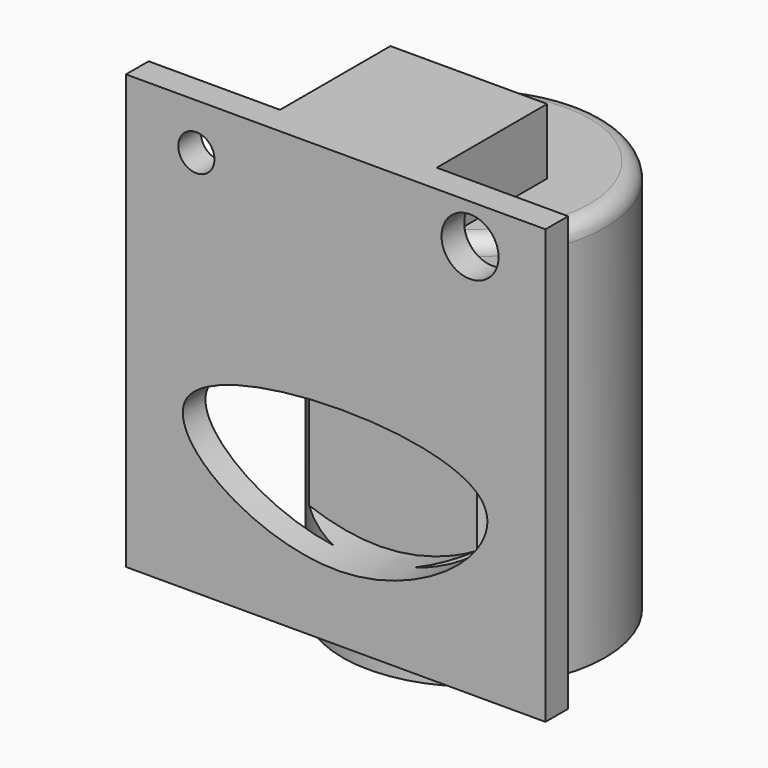
from build123d import *

# Parameters (mm, degrees)
F0_R      = 127
F1_DEPTH  = 381
F2_R      = 15.24
F3_W      = 126.0042116046
F3_H      = 33.7627371773
F4_DEPTH  = 63.5
F5_W      = 126.0042116046
F5_H      = 63.5
F6_DEPTH  = 127
F7_W      = 126.0042116046
F7_H      = 27.3971298127
F8_DEPTH  = 355.6
F9_DEPTH  = 25.4
F11_DEPTH = 127
F12_W     = 27.3971298127
F12_H     = 419.1
F13_DEPTH = 127
F14_R     = 17.4895868551
F14_R_2   = 27.5583251685
F15_DEPTH = 50.8


with BuildPart() as f1:
    # F0 (on Top) → F1 (new body)
    with BuildSketch(Plane.XY):
        with Locations((-18.0272441357, 8.4358751774)):
            Circle(F0_R)
    extrude(amount=F1_DEPTH)

    # F2
    f2_edges = [f1.edges().sort_by_distance(p)[0] for p in [
        (-145.027244, 8.435875, 381),
    ]]
    fillet(f2_edges, radius=F2_R)

    # F3 (on face) → F4 (join)
    with BuildSketch(Plane.XY.offset(381)):
        with Locations((-20.0667567551, 3.8541001268)):
            Rectangle(F3_W, F3_H)
    extrude(amount=F4_DEPTH)

    # F5 (on face) → F6 (join)
    with BuildSketch(Plane.XZ.offset(13.0272684619)):
        with Locations((-20.0667567551, 412.75)):
            Rectangle(F5_W, F5_H)
    extrude(amount=F6_DEPTH)

    # F7 (on face) → F8 (join)
    with BuildSketch(Plane(origin=(0, 0, 381), x_dir=(1, 0, 0), z_dir=(0, 0, -1))):
        with Locations((-20.0667567551, 126.3287035555)):
            Rectangle(F7_W, F7_H)
    extrude(amount=F8_DEPTH)

    # F9 (add): a face of the model
    f9_faces = [f1.faces().sort_by_distance(p)[0] for p in [
        (-83.0688625574, -135.5385106419, 234.95),
    ]]
    extrude(f9_faces, amount=F9_DEPTH)

    # F10 (on face) → F11 (join)
    with BuildSketch(Plane(origin=(-108.4688625574, 0, 0), x_dir=(0, -1, 0), z_dir=(-1, 0, 0))):
        Polygon((140.0272684619, 25.4), (140.0272684619, 444.5), (112.6301386492, 444.5), (112.6301386492, 381), (112.6301386492, 25.4), align=None)
    extrude(amount=F11_DEPTH)

    # F12 (on face) → F13 (join)
    with BuildSketch(Plane.YZ.offset(42.9353490472)):
        with Locations((-126.3287035555, 234.95)):
            Rectangle(F12_W, F12_H)
    extrude(amount=F13_DEPTH)

    # F14 (on face) → F15 (cut)
    with BuildSketch(Plane.XZ.offset(140.0272684619)):
        with Locations((-167.4611866474, 399.9962210655)):
            Circle(F14_R)
        with Locations((97.0467850566, 406.0656428337)):
            Circle(F14_R_2)
        with BuildLine():
            add(Edge.make_bspline(
                [(-176.0322153568, 189.0380978584), (-201.9253380349, 151.3628030109), (-24.8268478885, 23.085444119), (238.6265275345, 243.979797102), (-143.4799308709, 236.4026792268), (-176.0322153568, 189.0380978584)],
                knots=[0, 0, 0, 0, 0.3093685357, 0.6110684405, 1, 1, 1, 1], degree=3))
        make_face()
    extrude(amount=-F15_DEPTH, mode=Mode.SUBTRACT)


solid = f1.part
